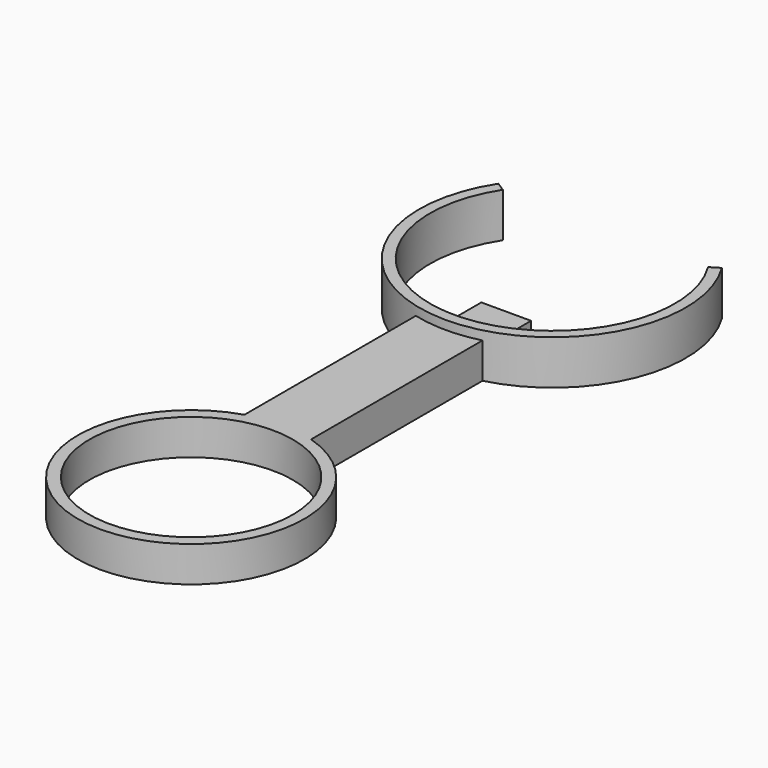
from build123d import *

# Parameters (mm, degrees)
SKETCH_R      = 30
SKETCH_R_2    = 27.55
PAD_DEPTH     = 10
POCKET_DEPTH  = 10
SKETCH002_W   = 11.2
SKETCH002_H   = 4.75
PAD001_DEPTH  = 15
SKETCH003_W   = 15
SKETCH003_H   = 8
PAD002_DEPTH  = 50
SKETCH004_R   = 25.5
SKETCH004_R_2 = 22.9
PAD003_DEPTH  = 8


with BuildPart() as body:
    # Sketch → Pad (new body)
    with BuildSketch(Plane.XY):
        Circle(SKETCH_R)
        Circle(SKETCH_R_2, mode=Mode.SUBTRACT)
    extrude(amount=PAD_DEPTH)

    # Sketch001 (on Face4 of Pad) → Pocket (cut)
    with BuildSketch(Plane.XY.offset(10)):
        with BuildLine():
            ThreePointArc((33.724741, 20.89253), (0.382596, 39.670008), (-33.31551, 21.539098))
            Line((-33.31551, 21.539098), (0, 0))
            Line((0, 0), (33.724741, 20.89253))
        make_face()
    extrude(amount=-POCKET_DEPTH, mode=Mode.SUBTRACT)


with BuildPart() as fusion:
    # Sketch002 → Pad001 (new body)
    with BuildSketch(Plane.XZ.offset(20)):
        with Locations((0, 2.375)):
            Rectangle(SKETCH002_W, SKETCH002_H)
    extrude(amount=PAD001_DEPTH)


with BuildPart() as fusion_1:
    # Body001 placement: moved
    add(fusion.part.moved(Location((0, 7, 0))))

    # Fusion: union Body
    add(body.part)


with BuildPart() as fusion001:
    # Sketch003 (on Body) → Pad002 (new body)
    with BuildSketch(Plane.XZ.offset(-7)):
        with Locations((0, 4)):
            Rectangle(SKETCH003_W, SKETCH003_H)
    extrude(amount=PAD002_DEPTH)


with BuildPart() as fusion001_1:
    # Body002 placement: moved
    add(fusion001.part.moved(Location((0, -35.2, 0))))

    # Fusion001: union Fusion
    add(fusion_1.part)


with BuildPart() as fusion002:
    # Sketch004 → Pad003 (new body)
    with BuildSketch(Plane.XY):
        with Locations((0, -84.238922)):
            Circle(SKETCH004_R)
        with Locations((0, -84.238922)):
            Circle(SKETCH004_R_2, mode=Mode.SUBTRACT)
    extrude(amount=PAD003_DEPTH)


with BuildPart() as fusion002_1:
    # Body003 placement: moved
    add(fusion002.part.moved(Location((0, -17.4, 0))))

    # Fusion002: union Fusion001
    add(fusion001_1.part)


solid = fusion002_1.part
